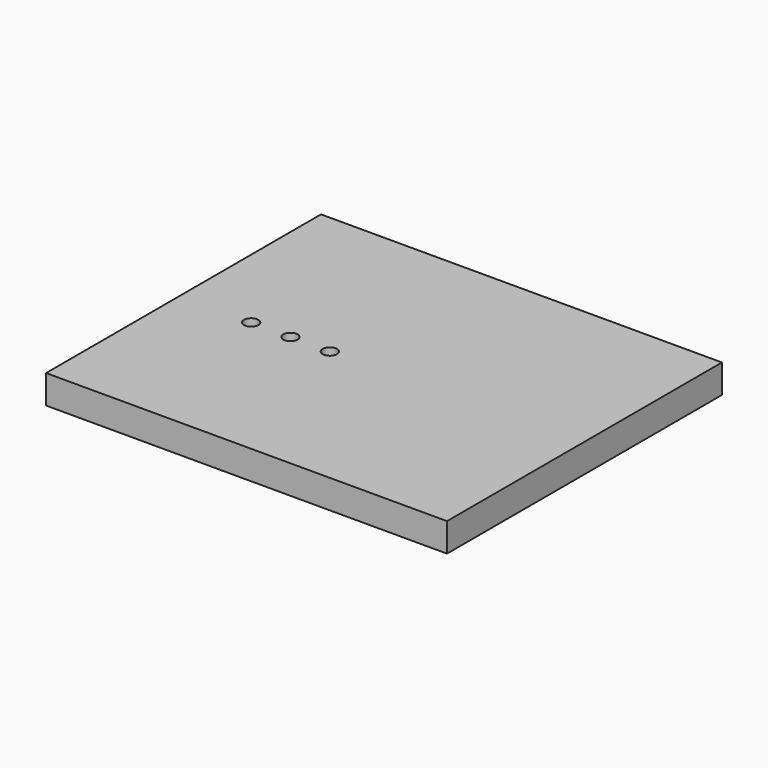
from build123d import *

# Parameters (mm, degrees)
F0_W          = 177.8
F0_H          = 152.4
F1_DEPTH      = 6.35
F1_DEPTH_BACK = 6.35
F3_DEPTH      = 12.701


with BuildPart() as f1:
    # F0 (on Top) → F1 (new body, two sides)
    with BuildSketch(Plane.XY) as f1_sk:
        with Locations((12.7, 0)):
            Rectangle(F0_W, F0_H)
    extrude(amount=F1_DEPTH)
    extrude(f1_sk.sketch, amount=-F1_DEPTH_BACK)

    # F2 (on face) → F3 (cut, through all)
    with BuildSketch(Plane.XY.offset(6.35)):
        with BuildLine():
            ThreePointArc((-47.625, -2.2225), (-44.45, -5.3975), (-41.275, -2.2225))
            ThreePointArc((-41.275, -2.2225), (-44.45, 0.9525), (-47.625, -2.2225))
        make_face()
        with BuildLine():
            ThreePointArc((-6.35, -2.2225), (-9.525, 0.9525), (-12.7, -2.2225))
            ThreePointArc((-12.7, -2.2225), (-9.525, -5.3975), (-6.35, -2.2225))
        make_face()
        with BuildLine():
            ThreePointArc((-23.8125, -2.2225), (-26.9875, 0.9525), (-30.1625, -2.2225))
            ThreePointArc((-30.1625, -2.2225), (-26.9875, -5.3975), (-23.8125, -2.2225))
        make_face()
    extrude(amount=-F3_DEPTH, mode=Mode.SUBTRACT)


solid = f1.part
